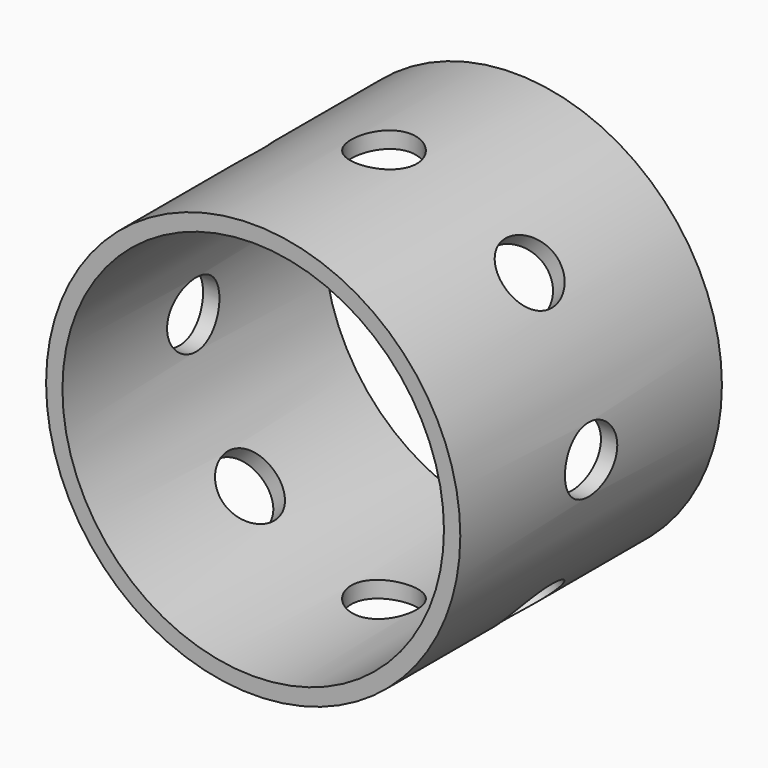
from build123d import *

# Parameters (mm, degrees)
F0_R     = 38
F0_R_2   = 35
F1_DEPTH = 60
F2_R     = 6
F4_DEPTH = 50
F5_COUNT = 8
F5_ANGLE = 315


with BuildPart() as f1:
    # F0 (on Front) → F1 (new body)
    with BuildSketch(Plane.XZ):
        Circle(F0_R)
        Circle(F0_R_2, mode=Mode.SUBTRACT)
    extrude(amount=F1_DEPTH)

    # F2 (on Right) → F4 (cut)
    with BuildSketch(Plane.YZ):
        with Locations((-30, 0)):
            Circle(F2_R)
    f4 = extrude(amount=-F4_DEPTH, mode=Mode.SUBTRACT)

    # F5: F4 ×8 about axis
    f5_axis = Axis((0, -36.070432514, 0), (0, 1, 0))
    for i in range(1, F5_COUNT):
        add(f4.rotate(f5_axis, i * F5_ANGLE / (F5_COUNT - 1)), mode=Mode.SUBTRACT)


solid = f1.part
